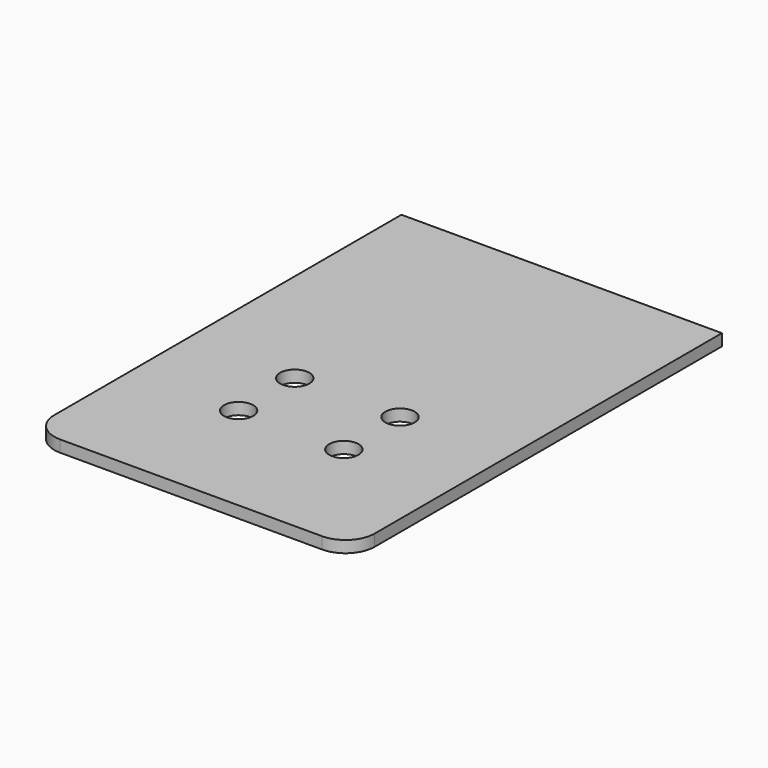
from build123d import *

# Parameters (mm, degrees)
F0_W     = 54.8
F0_H     = 79.2
F0_R     = 2.5
F1_DEPTH = 2
F2_R     = 5


with BuildPart() as f1:
    # F0 (on Top) → F1 (new body)
    with BuildSketch(Plane.XY):
        with Locations((27.4, 39.6)):
            Rectangle(F0_W, F0_H)
        with Locations((18.4, 21.4)):
            Circle(F0_R, mode=Mode.SUBTRACT)
        with Locations((18.4, 33.4)):
            Circle(F0_R, mode=Mode.SUBTRACT)
        with Locations((36.4, 21.4)):
            Circle(F0_R, mode=Mode.SUBTRACT)
        with Locations((36.4, 33.4)):
            Circle(F0_R, mode=Mode.SUBTRACT)
    extrude(amount=F1_DEPTH)

    # F2
    f2_edges = [f1.edges().sort_by_distance(p)[0] for p in [
        (54.8, 0, 1),
        (0, 0, 1),
    ]]
    fillet(f2_edges, radius=F2_R)


solid = f1.part
